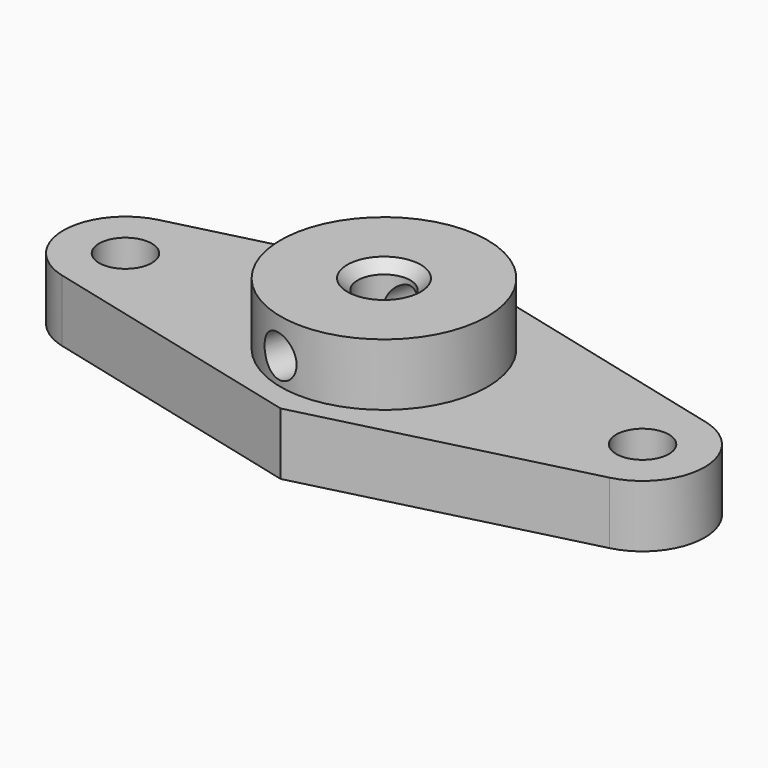
from build123d import *

# Parameters (mm, degrees)
SKETCH_R      = 2.55
PAD_DEPTH     = 6
SKETCH001_R   = 10
SKETCH001_R_2 = 2.55
PAD001_DEPTH  = 6
CHAMFER_SIZE  = 1
SKETCH002_R   = 2
POCKET_DEPTH  = 31.828851


with BuildPart() as part:
    # Sketch → Pad (new body)
    with BuildSketch(Plane.XY):
        with BuildLine():
            ThreePointArc((26.46873, -5.817459), (31, 0), (26.46873, 5.817459))
            Line((26.46873, 5.817459), (0, 12.5))
            Line((0, 12.5), (-26.46873, 5.817459))
            ThreePointArc((-26.46873, 5.817459), (-31, 0), (-26.46873, -5.817459))
            Line((-26.46873, -5.817459), (0, -12.5))
            Line((0, -12.5), (26.46873, -5.817459))
        make_face()
        Circle(SKETCH_R, mode=Mode.SUBTRACT)
        with Locations((-25, 0)):
            Circle(SKETCH_R, mode=Mode.SUBTRACT)
        with Locations((25, 0)):
            Circle(SKETCH_R, mode=Mode.SUBTRACT)
    extrude(amount=PAD_DEPTH)

    # Sketch001 (on Face11 of Pad) → Pad001 (join)
    with BuildSketch(Plane.XY.offset(6)):
        Circle(SKETCH001_R)
        Circle(SKETCH001_R_2, mode=Mode.SUBTRACT)
    extrude(amount=PAD001_DEPTH)

    # Chamfer
    chamfer_edges = [part.edges().sort_by_distance(p)[0] for p in [
        (-2.55, 0, 12),
    ]]
    chamfer(chamfer_edges, length=CHAMFER_SIZE)

    # Sketch002 (on Face8 of Chamfer) → Pocket (cut, through all)
    with BuildSketch(Plane(origin=(2.966762, 11.750984, 0), x_dir=(-0.969577, 0.244788, 0), z_dir=(0.244788, 0.969577, 0))):
        with Locations((0, 8.534735)):
            Circle(SKETCH002_R)
    extrude(amount=-POCKET_DEPTH, mode=Mode.SUBTRACT)


solid = part.part
